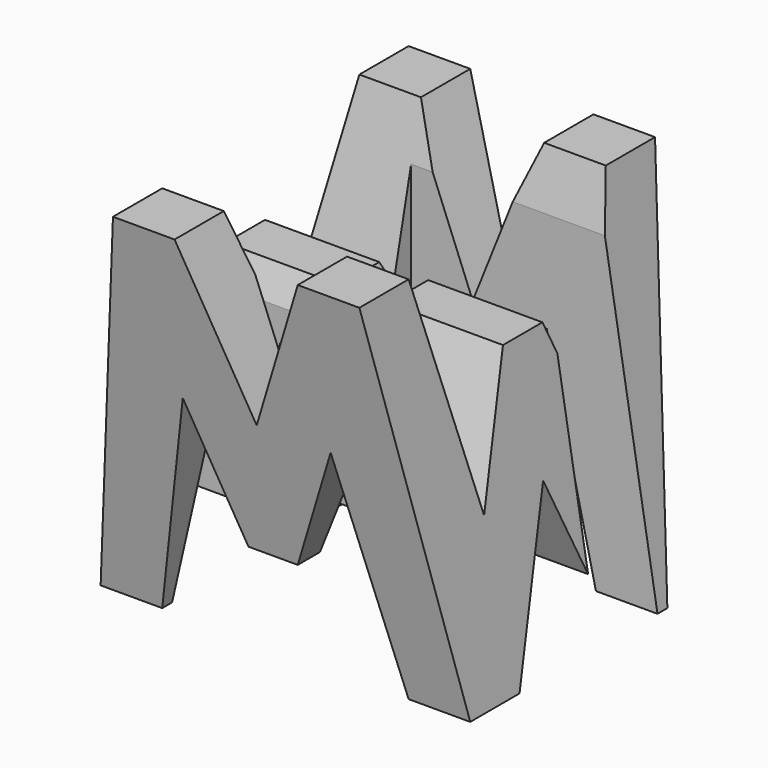
from build123d import *

# Parameters (mm, degrees)
F0_W     = 38.1
F0_H     = 38.1
F1_DEPTH = 38.1
F5_DEPTH = 38.1
F7_DEPTH = 38.1
F8_W     = 25.4
F8_H     = 7.62
F9_DEPTH = 38.1


with BuildPart() as f1:
    # F0 (on Front) → F1 (new body)
    with BuildSketch(Plane.XZ):
        with Locations((-19.05, 19.05)):
            Rectangle(F0_W, F0_H)
    extrude(amount=F1_DEPTH)

    # F4 (on offset) → F5 (cut)
    with BuildSketch(Plane.YZ):
        Polygon((-11.43, 15.875), (-6.35, 38.1), (-31.75, 38.1), (-26.67, 15.824118), (-21.59, 28.524118), (-16.51, 28.524118), align=None)
        Polygon((-38.1, 0), (-31.75, 0), (-38.1, 38.1), align=None)
        Polygon((-25.4, 0), (-12.7, 0), (-19.05, 15.875), align=None)
        Polygon((-6.35, 0), (0, 0), (0, 38.1), align=None)
    extrude(amount=-F5_DEPTH, mode=Mode.SUBTRACT)

    # F6 (on Front) → F7 (cut)
    with BuildSketch(Plane.XZ):
        Polygon((0, 0), (0, 38.1), (-6.35, 38.1), align=None)
        Polygon((-19.05, 22.225), (-12.7, 38.1), (-25.4, 38.1), align=None)
        Polygon((-38.1, 0), (-31.75, 38.1), (-38.1, 38.1), align=None)
        Polygon((-31.75, 0), (-6.35, 0), (-11.43, 22.225), (-16.51, 9.525), (-21.59, 9.525), (-26.67, 22.225), align=None)
    extrude(amount=F7_DEPTH, mode=Mode.SUBTRACT)

    # F8 (on offset) → F9 (cut)
    with BuildSketch(Plane.XY.offset(38.1)):
        with Locations((-25.4, -26.67)):
            Rectangle(F8_W, F8_H)
        with Locations((-12.7, -11.43)):
            Rectangle(F8_W, F8_H)
    extrude(amount=-F9_DEPTH, mode=Mode.SUBTRACT)


solid = f1.part
